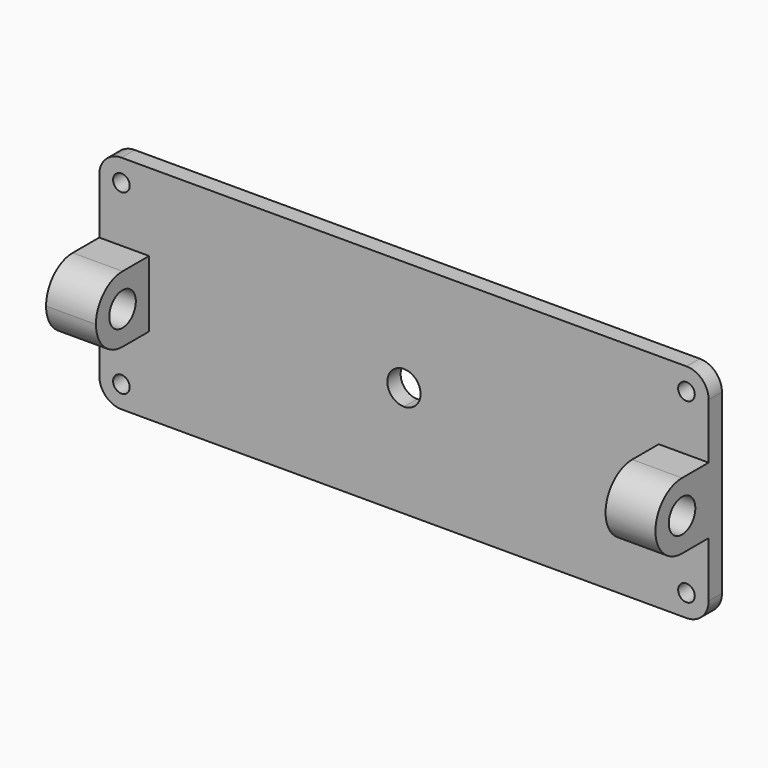
from build123d import *

# Parameters (mm, degrees)
F1_DEPTH  = 19.05
F2_R      = 25.4
F4_W      = 57.15
F4_H      = 38.1
F5_DEPTH  = 38.1
F7_DEPTH  = 57.15
F8_R      = 19.05
F10_DEPTH = 76.2
F12_DEPTH = 38.1
F14_DEPTH = 57.15
F16_DEPTH = 76.2
F15_R     = 19.05
F17_DEPTH = 57.15
F11_R     = 9.525
F18_DEPTH = 25.4


with BuildPart() as f1:
    # F0 (on Front) → F1 (new body)
    with BuildSketch(Plane.XZ):
        Polygon((-304.499298, 254), (-304.499298, 0), (44.750702, 0), (394.000702, 0), (394.000702, 254), align=None)
        with BuildLine():
            ThreePointArc((63.800702, 127), (58.221086, 113.529616), (44.750702, 107.95))
            ThreePointArc((44.750702, 107.95), (31.280317, 140.470384), (63.800702, 127))
        make_face(mode=Mode.SUBTRACT)
    extrude(amount=F1_DEPTH)

    # F2
    f2_edges = [f1.edges().sort_by_distance(p)[0] for p in [
        (-304.499298, -9.525, 254),
        (394.000702, -9.525, 254),
        (394.000702, -9.525, 0),
        (-304.499298, -9.525, 0),
    ]]
    fillet(f2_edges, radius=F2_R)

    # F4 (on face) → F5 (join)
    with BuildSketch(Plane.XZ.offset(19.05)):
        with Locations((-275.924298, 146.05)):
            Rectangle(F4_W, F4_H)
        with Locations((-275.924298, 107.95)):
            Rectangle(F4_W, F4_H)
    extrude(amount=F5_DEPTH)

    # F6 (on face) → F7 (join)
    with BuildSketch(Plane(origin=(-304.499298, 0, 0), x_dir=(0, -1, 0), z_dir=(-1, 0, 0))):
        with BuildLine():
            ThreePointArc((57.15, 88.9), (84.090768, 100.059232), (95.25, 127))
            ThreePointArc((95.25, 127), (84.090768, 153.940768), (57.15, 165.1))
            Line((57.15, 165.1), (57.15, 88.9))
        make_face()
    extrude(amount=-F7_DEPTH)

    # F8 (on face) → F10 (cut)
    with BuildSketch(Plane.YZ.offset(-247.349298)):
        with Locations((-57.15, 127)):
            Circle(F8_R)
    extrude(amount=-F10_DEPTH, mode=Mode.SUBTRACT)

    # F4 (on face) → F12 (join)
    with BuildSketch(Plane.XZ.offset(19.05)):
        with Locations((-275.924298, 146.05)):
            Rectangle(F4_W, F4_H)
        with Locations((-275.924298, 107.95)):
            Rectangle(F4_W, F4_H)
        with Locations((365.425702, 107.95)):
            Rectangle(F4_W, F4_H)
        with Locations((365.425702, 146.05)):
            Rectangle(F4_W, F4_H)
    extrude(amount=F12_DEPTH)

    # F13 (on face) → F14 (join)
    with BuildSketch(Plane.YZ.offset(394.000702)):
        with BuildLine():
            Line((-57.15, 88.9), (-57.15, 165.1))
            ThreePointArc((-57.15, 165.1), (-95.25, 127), (-57.15, 88.9))
        make_face()
    extrude(amount=-F14_DEPTH)

    # F8 (on face) → F16 (cut)
    with BuildSketch(Plane.YZ.offset(-247.349298)):
        with Locations((-57.15, 127)):
            Circle(F8_R)
    extrude(amount=-F16_DEPTH, mode=Mode.SUBTRACT)

    # F15 (on face) → F17 (cut)
    with BuildSketch(Plane.YZ.offset(394.000702)):
        with Locations((-57.15, 127)):
            Circle(F15_R)
    extrude(amount=-F17_DEPTH, mode=Mode.SUBTRACT)

    # F11 (on face) → F18 (cut)
    with BuildSketch(Plane.XZ.offset(19.05)):
        with Locations((-279.099298, 228.6)):
            Circle(F11_R)
        with Locations((-279.099298, 25.4)):
            Circle(F11_R)
        with Locations((368.600702, 228.6)):
            Circle(F11_R)
        with Locations((368.600702, 25.4)):
            Circle(F11_R)
    extrude(amount=-F18_DEPTH, mode=Mode.SUBTRACT)


solid = f1.part
